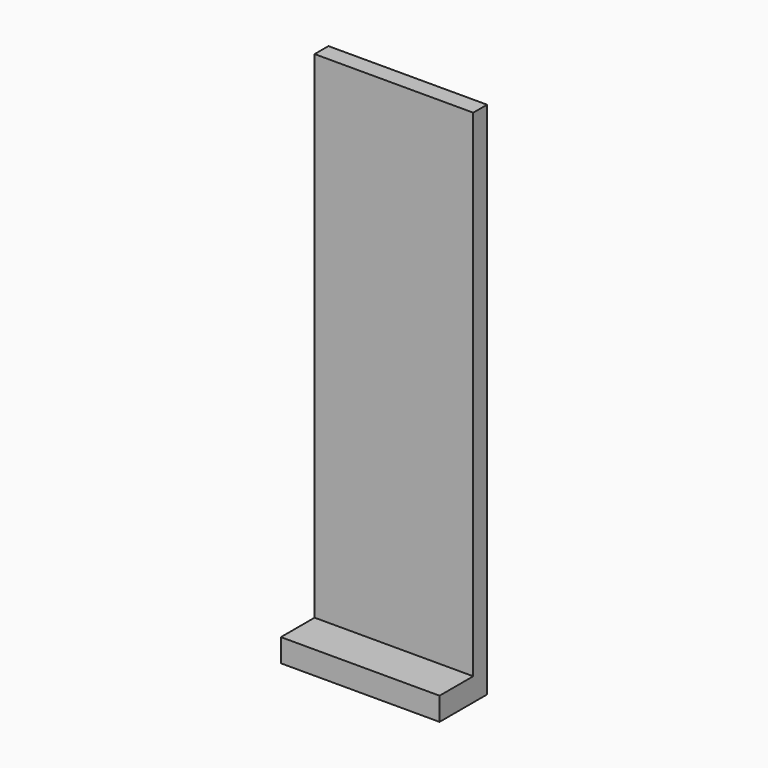
from build123d import *

# Parameters (mm, degrees)
F0_W     = 27.5
F0_H     = 90
F1_DEPTH = 3
F2_W     = 27.5
F2_H     = 10.3
F3_DEPTH = 4


with BuildPart() as f1:
    # F0 (on Front) → F1 (new body)
    with BuildSketch(Plane.XZ):
        with Locations((0, -5)):
            Rectangle(F0_W, F0_H)
    extrude(amount=F1_DEPTH)

    # F2 (on face) → F3 (join)
    with BuildSketch(Plane(origin=(0, 0, -50), x_dir=(1, 0, 0), z_dir=(0, 0, -1))):
        with Locations((0, 5.15)):
            Rectangle(F2_W, F2_H)
    extrude(amount=-F3_DEPTH)


solid = f1.part
